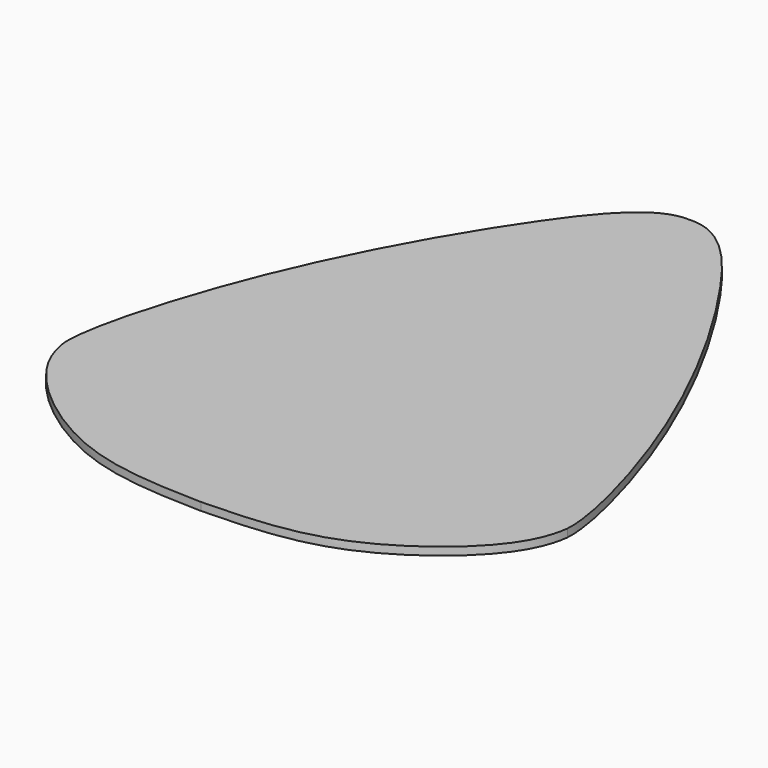
from build123d import *

# Parameters (mm, degrees)
F1_DEPTH = 0.44


with BuildPart() as f1:
    # F0 (on Top) → F1 (new body)
    with BuildSketch(Plane.XY):
        with BuildLine():
            Line((0, 26), (0, 0))
            Line((0, 0), (0, -8))
            add(Edge.make_bspline(
                [(0, -8), (2.2808804072, -7.9378300476), (6.8927909358, -7.8139808089), (12.7806773832, -3.4945379032), (13.8783436269, -1.0259986157), (14, 0)],
                knots=[0, 0, 0, 0, 0.368956779, 0.7390773442, 1, 1, 1, 1], degree=3))
            add(Edge.make_bspline(
                [(14, 0), (14.1249978915, 1.4920468675), (11.8342673046, 10.3275879573), (5.7318946481, 21.4766891051), (1.7463180469, 26.108231492), (0, 26)],
                knots=[0, 0, 0, 0, 0.3295937127, 0.730781888, 1, 1, 1, 1], degree=3))
        make_face()
    extrude(amount=F1_DEPTH)

    # F2: F1 across plane


with BuildPart() as f1_1:
    add(f1.part)
    add(f1.part.mirror(Plane.YZ))


solid = f1_1.part
